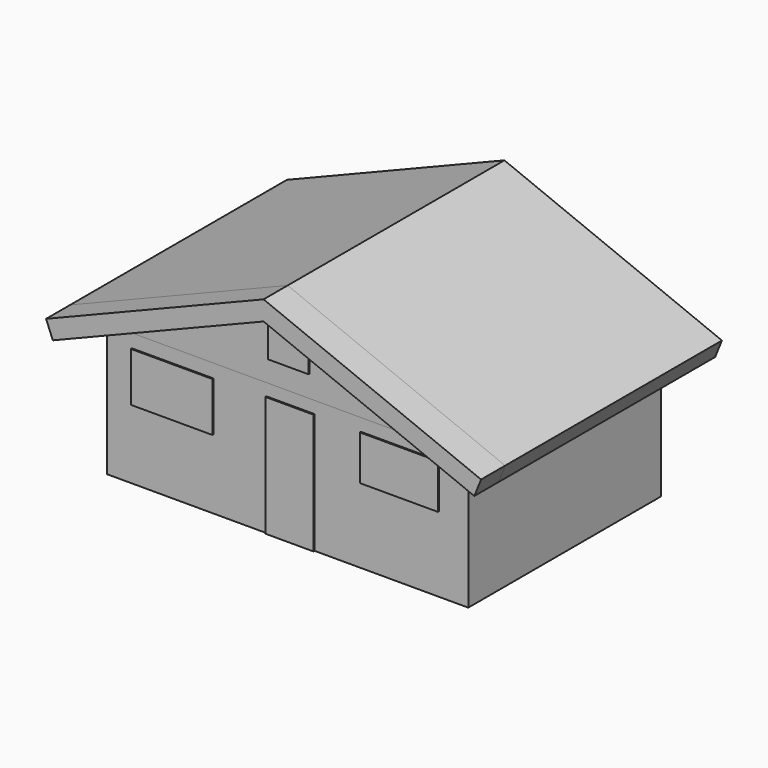
from build123d import *

# Parameters (mm, degrees)
F0_W     = 6000
F0_H     = 2200
F1_DEPTH = 4000
F3_DEPTH = 500
F4_DEPTH = 4500
F6_DEPTH = 4000
F7_W     = 800
F7_H     = 2000
F7_W_2   = 1296.300173
F7_H_2   = 741.021634
F7_W_3   = 1353.869214
F7_H_3   = 817.883491
F7_W_4   = 673.915625
F7_H_4   = 543.471098
F8_DEPTH = 22


with BuildPart() as f1:
    # F0 (on Front) → F1 (new body)
    with BuildSketch(Plane.XZ):
        with Locations((1364.468694, 1100)):
            Rectangle(F0_W, F0_H)
    extrude(amount=-F1_DEPTH)



with BuildPart() as f3:
    # F2 (on face) → F3 (new body)
    with BuildSketch(Plane.XZ):
        Polygon((-2247.913284, 2276.142043), (-2135.531306, 1997.986887), (1364.468694, 3412.078678), (4864.468694, 1997.986887), (4976.850672, 2276.142043), (1364.468694, 3735.6391), align=None)
    extrude(amount=F3_DEPTH)


with BuildPart() as f1_1:
    add(f1.part)

    add(f3.part)  # F4 merges F3
    # F3_face (on face) → F4 (join)
    with BuildSketch(Plane(origin=(1364.468694, 0, 2856.253981), x_dir=(1, 0, 0), z_dir=(0, 1, 0))):
        Polygon((-3612.381978, 580.111937), (0, -879.38512), (3612.381978, 580.111937), (3500, 858.267094), (0, -555.824697), (-3500, 858.267094), align=None)
    extrude(amount=F4_DEPTH)


with BuildPart() as f6:
    # F5 (on face) → F6 (new body)
    with BuildSketch(Plane(origin=(0, 4000, 0), x_dir=(-1, 0, 0), z_dir=(0, 1, 0))):
        Polygon((-1364.468694, 3412.078678), (-4364.468694, 2200), (1635.531306, 2200), align=None)
    extrude(amount=-F6_DEPTH)


with BuildPart() as f8:
    # F7 (on face) → F8 (new body)
    with BuildSketch(Plane.XZ):
        with Locations((1411.834741, 1000)):
            Rectangle(F7_W, F7_H)
        with Locations((3228.898882, 1621.110797)):
            Rectangle(F7_W_2, F7_H_2)
        with Locations((-545.941703, 1566.476702)):
            Rectangle(F7_W_3, F7_H_3)
        with Locations((1392.640471, 2835.620284)):
            Rectangle(F7_W_4, F7_H_4)
    extrude(amount=F8_DEPTH)


solid = Compound([f1_1.part, f6.part, f8.part])
